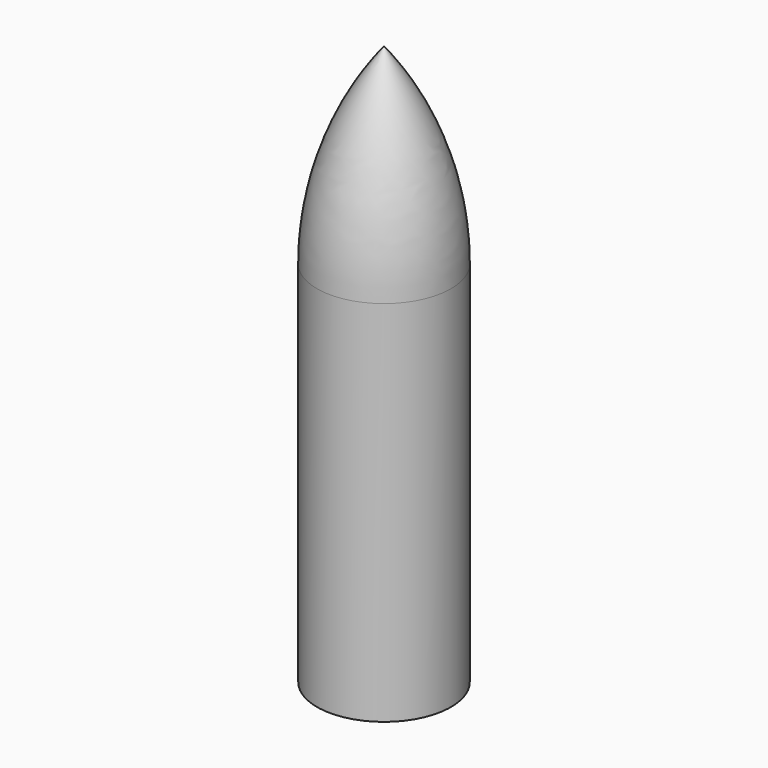
from build123d import *


with BuildPart() as f1:
    # F0 (on Right) → F1 (revolve)
    with BuildSketch(Plane.YZ):
        with BuildLine():
            Line((0, 64), (0, 0))
            Line((0, 0), (4, 0))
            Line((4, 0), (4, 3.605474))
            ThreePointArc((4, 3.605474), (4.594649, 7.278314), (6.317839, 10.575884))
            ThreePointArc((6.317839, 10.575884), (8.311883, 14.391772), (9, 18.641913))
            Line((9, 18.641913), (9, 55))
            ThreePointArc((9, 55), (6.363961, 61.363961), (0, 64))
        make_face()
    revolve(axis=Axis((0, 0, 32), (0, 0, 1)))

    # F2 (on Right) → F3 (revolve)
    with BuildSketch(Plane.YZ):
        with BuildLine():
            Line((0, 96.086718), (0, 65.486677))
            Line((0, 65.486677), (9.5, 59.802948))
            Line((9.5, 59.802948), (9.5, 0))
            Line((9.5, 0), (11.5, 0))
            Line((11.5, 0), (11.5, 63.176483))
            ThreePointArc((11.5, 63.176483), (8.542218, 80.6073), (0, 96.086718))
        make_face()
    revolve(axis=Axis((0, 0, 48.043359), (0, 0, 1)))


solid = f1.part
